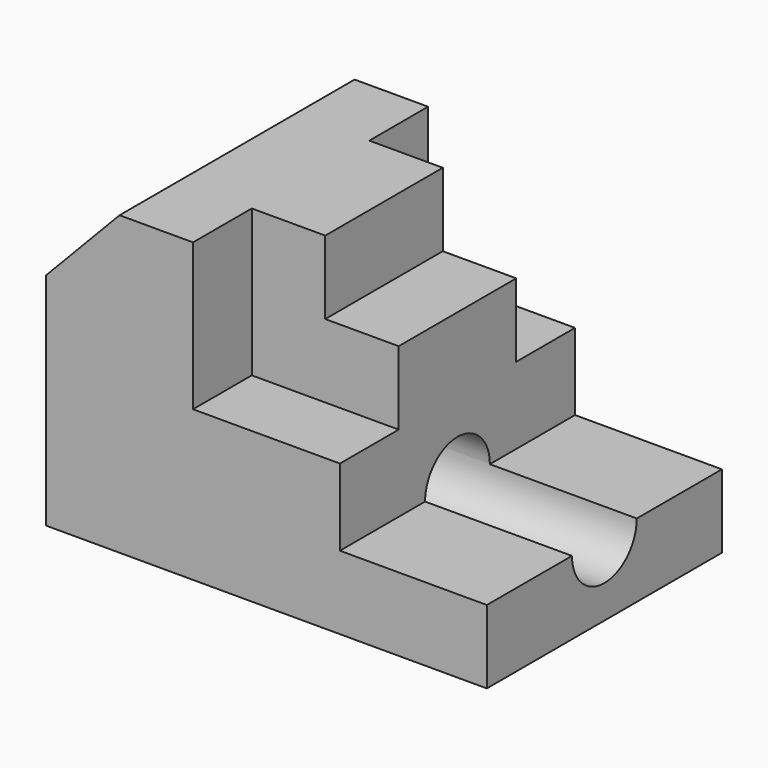
from build123d import *

# Parameters (mm, degrees)
F1_DEPTH = 25.4
F2_DEPTH = 12.7
F3_R     = 6.999522
F4_DEPTH = 76.2


with BuildPart() as f1:
    # F0 (on Front) → F1 (new body, symmetric)
    with BuildSketch(Plane.XZ):
        Polygon((0, 38.1), (0, 0), (76.2, 0), (76.2, 12.7), (50.8, 12.7), (50.8, 25.969388), (25.4, 25.969388), (25.4, 51.369388), (12.7, 51.369388), align=None)
    extrude(amount=F1_DEPTH, both=True)

    # F0 (on Front) → F2 (join, symmetric)
    with BuildSketch(Plane.XZ):
        Polygon((38.1, 51.369388), (25.4, 51.369388), (25.4, 25.969388), (50.8, 25.969388), (50.8, 38.669388), (38.1, 38.669388), align=None)
    extrude(amount=F2_DEPTH, both=True)

    # F3 (on Right) → F4 (cut)
    with BuildSketch(Plane.YZ):
        with Locations((0, 12.7047)):
            Circle(F3_R)
    extrude(amount=F4_DEPTH, mode=Mode.SUBTRACT)


solid = f1.part
